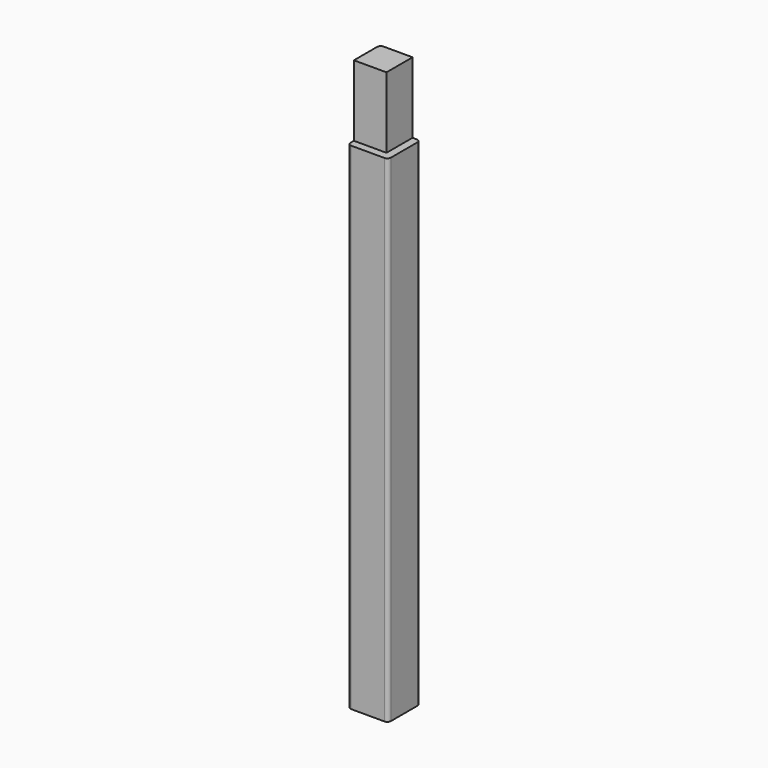
from build123d import *

# Parameters (mm, degrees)
F1_DEPTH = 800
F3_DEPTH = 100


with BuildPart() as f1:
    # F0 (on Top) → F1 (new body)
    with BuildSketch(Plane.XY):
        with BuildLine():
            Line((23.5, 28.5), (-23.5, 28.5))
            ThreePointArc((-23.5, 28.5), (-27.035534, 27.035534), (-28.5, 23.5))
            Line((-28.5, 23.5), (-28.5, -23.5))
            ThreePointArc((-28.5, -23.5), (-27.035534, -27.035534), (-23.5, -28.5))
            Line((-23.5, -28.5), (23.5, -28.5))
            ThreePointArc((23.5, -28.5), (27.035534, -27.035534), (28.5, -23.5))
            Line((28.5, -23.5), (28.5, 23.5))
            ThreePointArc((28.5, 23.5), (27.035534, 27.035534), (23.5, 28.5))
        make_face()
    extrude(amount=F1_DEPTH)

    # F2 (on face) → F3 (cut)
    with BuildSketch(Plane.XY.offset(800)):
        Polygon((-35.619496, -17.5), (-35.619496, -32.5), (32.5, -32.5), (32.5, 34.954965), (17.5, 34.954965), (17.5, -17.5), align=None)
    extrude(amount=-F3_DEPTH, mode=Mode.SUBTRACT)


solid = f1.part
